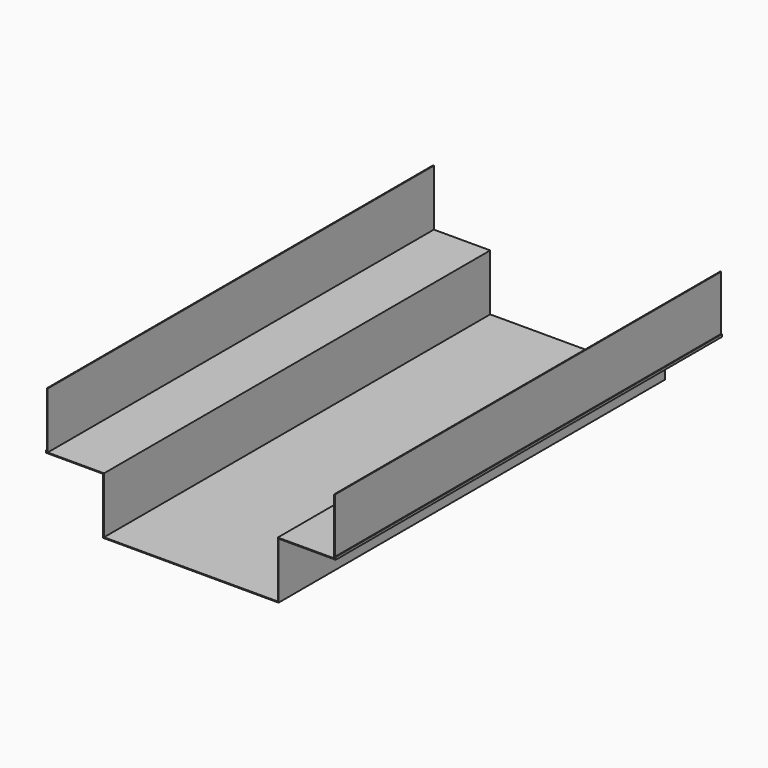
from build123d import *

# Parameters (mm, degrees)
F1_DEPTH      = 1500
F1_DEPTH_BACK = 1500


with BuildPart() as f1:
    # F0 (on Front) → F1 (new body, two sides)
    with BuildSketch(Plane.XZ) as f1_sk:
        Polygon((539.99998, -700), (0, -700), (-539.99998, -700), (-539.99998, -350), (-889.99998, -350), (-889.99998, 0), (-894.999975, 0), (-894.999975, -340.000025), (-900, -340.000025), (-900, -355.000025), (-545.000005, -355.000025), (-545.000005, -705.000025), (0, -705.000025), (545.000005, -705.000025), (545.000005, -355.000025), (900, -355.000025), (900, -340.000025), (894.999975, -340.000025), (894.999975, 0), (889.99998, 0), (889.99998, -350), (539.99998, -350), align=None)
    extrude(amount=F1_DEPTH)
    extrude(f1_sk.sketch, amount=-F1_DEPTH_BACK)


solid = f1.part
